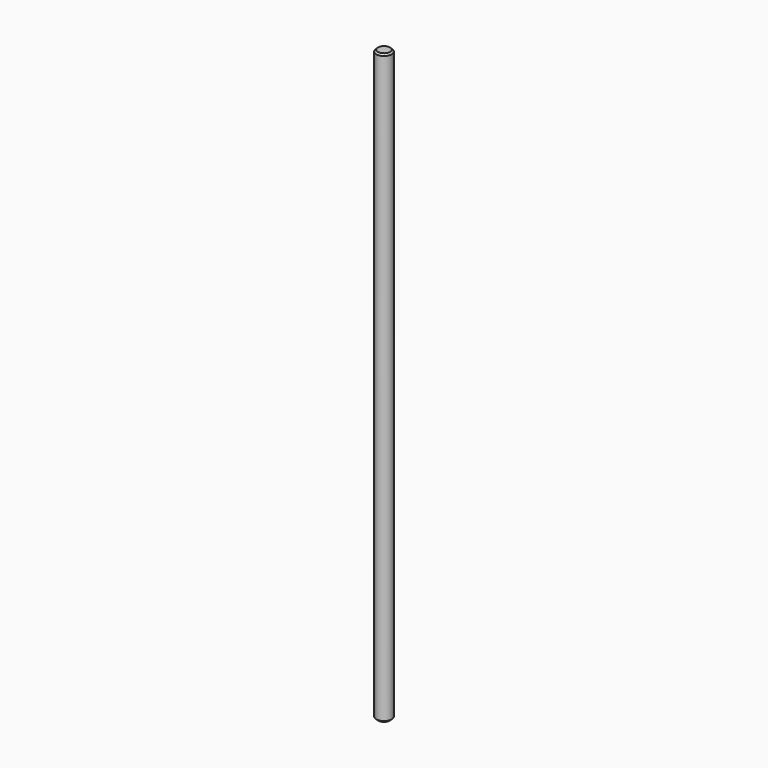
from build123d import *

# Parameters (mm, degrees)
SKETCH_R     = 4.7625
PAD_DEPTH    = 365
CHAMFER_SIZE = 1


with BuildPart() as part:
    # Sketch → Pad (new body)
    with BuildSketch(Plane.XY):
        Circle(SKETCH_R)
    extrude(amount=PAD_DEPTH)

    # Chamfer
    chamfer_edges = [part.edges().sort_by_distance(p)[0] for p in [
        (-4.7625, 0, 365),
        (-4.7625, 0, 0),
    ]]
    chamfer(chamfer_edges, length=CHAMFER_SIZE)


solid = part.part
